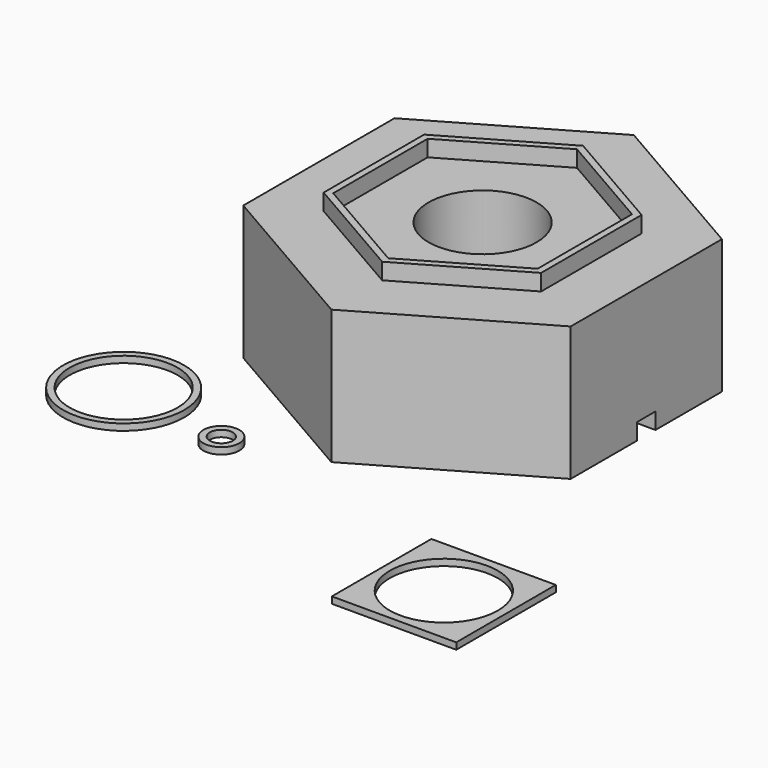
from build123d import *

# Parameters (mm, degrees)
F1_DEPTH  = 41
F3_DEPTH  = 5
F5_DEPTH  = 5
F6_R      = 16.5
F7_DEPTH  = 35
F9_R      = 3.5
F10_DEPTH = 25
F11_W     = 7
F11_H     = 5
F12_DEPTH = 54
F13_W     = 6
F13_H     = 1
F14_DEPTH = 1.5
F15_W     = 6
F15_H     = 1
F16_DEPTH = 1.5
F17_R     = 18.5
F17_R_2   = 16.5
F18_DEPTH = 2
F19_R     = 5.5
F19_R_2   = 3.5
F20_DEPTH = 2
F21_W     = 38
F21_H     = 38
F21_R     = 16.5
F22_DEPTH = 2


with BuildPart() as f1:
    # F0 (on Top) → F1 (new body)
    with BuildSketch(Plane.XY):
        Polygon((49.999933, 28.867475), (0, 57.73495), (-49.999933, 28.867475), (-49.999933, -28.867475), (0, -57.73495), (49.999933, -28.867475), align=None)
    extrude(amount=F1_DEPTH)

    # F2 (on face) → F3 (join)
    with BuildSketch(Plane.XY.offset(41)):
        Polygon((33.210299, 19.173975), (0, 38.34795), (-33.210299, 19.173975), (-33.210299, -19.173975), (0, -38.34795), (33.210299, -19.173975), align=None)
    extrude(amount=F3_DEPTH)

    # F4 (on face) → F5 (cut)
    with BuildSketch(Plane.XY.offset(46)):
        Polygon((31.210525, 18.019405), (0, 36.03881), (-31.210525, 18.019405), (-31.210525, -18.019405), (0, -36.03881), (31.210525, -18.019405), align=None)
    extrude(amount=-F5_DEPTH, mode=Mode.SUBTRACT)

    # F6 (on face) → F7 (cut)
    with BuildSketch(Plane.XY.offset(41)):
        Circle(F6_R)
    extrude(amount=-F7_DEPTH, mode=Mode.SUBTRACT)

    # F9 (on face) → F10 (cut)
    with BuildSketch(Plane.XY.offset(6)):
        Circle(F9_R)
    extrude(amount=-F10_DEPTH, mode=Mode.SUBTRACT)

    # F11 (on face) → F12 (cut)
    with BuildSketch(Plane.YZ.offset(49.999933)):
        with Locations((0, 2.5)):
            Rectangle(F11_W, F11_H)
    extrude(amount=-F12_DEPTH, mode=Mode.SUBTRACT)

    # F13 (on face) → F14 (join)
    with BuildSketch(Plane(origin=(0, -3.5, 0), x_dir=(-1, 0, 0), z_dir=(0, 1, 0))):
        with Locations((-9.499933, 0.5)):
            Rectangle(F13_W, F13_H)
        with Locations((-36.499933, 0.5)):
            Rectangle(F13_W, F13_H)
    extrude(amount=F14_DEPTH)

    # F15 (on face) → F16 (join)
    with BuildSketch(Plane.XZ.offset(-3.5)):
        with Locations((36.499933, 0.5)):
            Rectangle(F15_W, F15_H)
        with Locations((9.499933, 0.5)):
            Rectangle(F15_W, F15_H)
    extrude(amount=F16_DEPTH)


with BuildPart() as f18:
    # F17 (on Top) → F18 (new body)
    with BuildSketch(Plane.XY):
        with Locations((-60.313754, -61.652713)):
            Circle(F17_R)
        with Locations((-60.313754, -61.652713)):
            Circle(F17_R_2, mode=Mode.SUBTRACT)
    extrude(amount=F18_DEPTH)


with BuildPart() as f20:
    # F19 (on Top) → F20 (new body)
    with BuildSketch(Plane.XY):
        with Locations((-26.341047, -66.82577)):
            Circle(F19_R)
        with Locations((-26.341047, -66.82577)):
            Circle(F19_R_2, mode=Mode.SUBTRACT)
    extrude(amount=F20_DEPTH)


with BuildPart() as f22:
    # F21 (on Top) → F22 (new body)
    with BuildSketch(Plane.XY):
        with Locations((64.813106, -95.822567)):
            Rectangle(F21_W, F21_H)
        with Locations((64.813106, -95.822567)):
            Circle(F21_R, mode=Mode.SUBTRACT)
    extrude(amount=F22_DEPTH)


solid = Compound([f1.part, f18.part, f20.part, f22.part])
